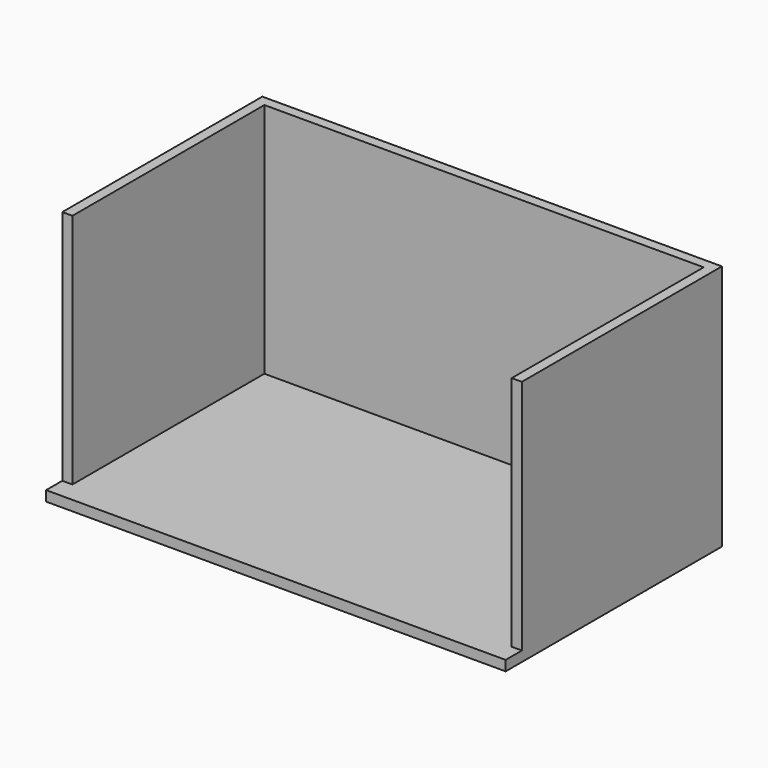
from build123d import *

# Parameters (mm, degrees)
F0_W     = 19.05
F0_H     = 450.85
F1_DEPTH = 463.55
F2_DEPTH = 19.05


with BuildPart() as f1:
    # F0 (on Top) → F1 (new body)
    with BuildSketch(Plane.XY):
        with Locations((9.525, 263.525)):
            Rectangle(F0_W, F0_H)
        Polygon((0, 508), (0, 488.95), (19.05, 488.95), (844.55, 488.95), (863.6, 488.95), (863.6, 508), align=None)
        with Locations((854.075, 263.525)):
            Rectangle(F0_W, F0_H)
    extrude(amount=F1_DEPTH)

    # F0 (on Top) → F2 (join)
    with BuildSketch(Plane.XY):
        Polygon((0, 38.1), (0, 0), (863.6, 0), (863.6, 38.1), (844.55, 38.1), (844.55, 488.95), (19.05, 488.95), (19.05, 38.1), align=None)
    extrude(amount=F2_DEPTH)


solid = f1.part
